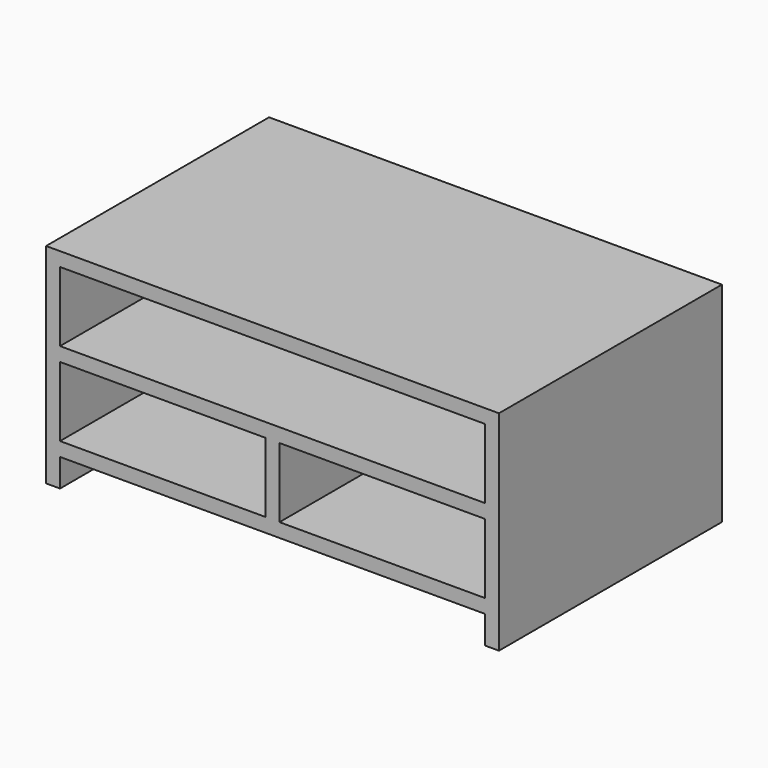
from build123d import *

# Parameters (mm, degrees)
F0_W     = 1300
F0_H     = 600
F1_DEPTH = 800
F2_W     = 1220
F2_H     = 80
F3_DEPTH = 800.001
F4_W     = 1220
F4_H     = 200
F5_DEPTH = 800.001
F6_W     = 590
F6_H     = 200
F7_DEPTH = 780


with BuildPart() as f1:
    # F0 (on Front) → F1 (new body)
    with BuildSketch(Plane.XZ):
        Rectangle(F0_W, F0_H)
    extrude(amount=F1_DEPTH)

    # F2 (on face) → F3 (cut, through all)
    with BuildSketch(Plane.XZ.offset(800)):
        with Locations((0, -260)):
            Rectangle(F2_W, F2_H)
    extrude(amount=-F3_DEPTH, mode=Mode.SUBTRACT)

    # F4 (on face) → F5 (cut, through all)
    with BuildSketch(Plane.XZ.offset(800)):
        with Locations((0, 160)):
            Rectangle(F4_W, F4_H)
    extrude(amount=-F5_DEPTH, mode=Mode.SUBTRACT)

    # F6 (on face) → F7 (cut)
    with BuildSketch(Plane.XZ.offset(800)):
        with Locations((-315, -80)):
            Rectangle(F6_W, F6_H)
        with Locations((315, -80)):
            Rectangle(F6_W, F6_H)
    extrude(amount=-F7_DEPTH, mode=Mode.SUBTRACT)


solid = f1.part
